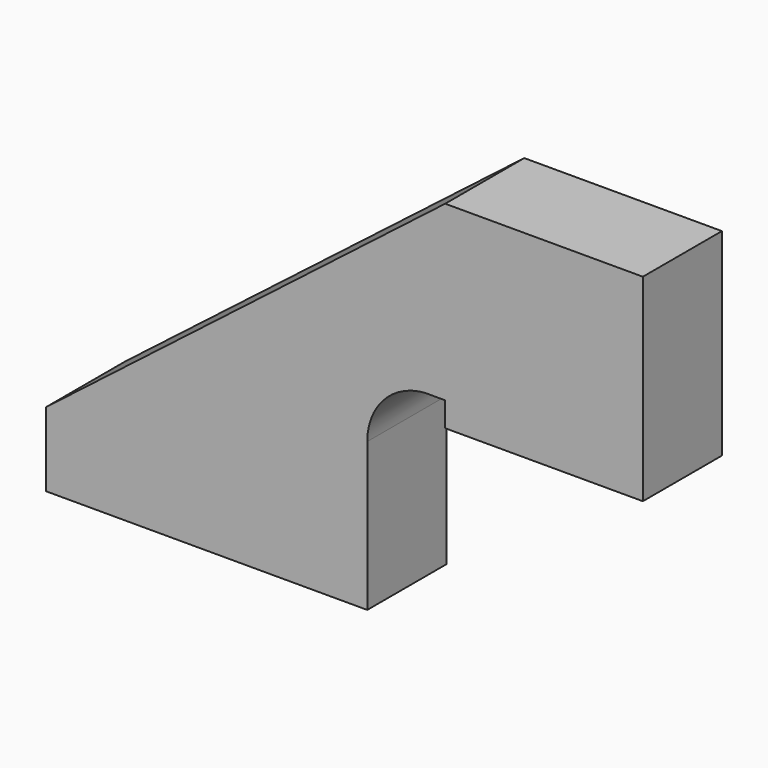
from build123d import *

# Parameters (mm, degrees)
F0_W     = 82.55
F0_H     = 19.05
F1_DEPTH = 25.4
F2_DEPTH = 25.4


with BuildPart() as f1:
    # F0 (on Front) → F1 (new body)
    with BuildSketch(Plane.XZ):
        Rectangle(F0_W, F0_H)
        Polygon((112.104006, 88.9), (61.304006, 88.9), (61.304006, 44.414274), (61.304006, 38.1), (112.104006, 38.1), align=None)
    extrude(amount=F1_DEPTH)


with BuildPart() as f2:
    # F0 (on Front) → F2 (new body)
    with BuildSketch(Plane.XZ):
        with BuildLine():
            Line((61.304006, 88.9), (-41.275, 9.525))
            Line((-41.275, 9.525), (41.275, 9.525))
            Line((41.275, 9.525), (41.275, 28.575))
            ThreePointArc((41.275, 28.575), (46.307544, 40.17055), (58.214437, 44.414274))
            Line((58.214437, 44.414274), (61.304006, 44.414274))
            Line((61.304006, 44.414274), (61.304006, 88.9))
        make_face()
        Rectangle(F0_W, F0_H)
        Polygon((112.104006, 88.9), (61.304006, 88.9), (61.304006, 44.414274), (61.304006, 38.1), (112.104006, 38.1), align=None)
    extrude(amount=F2_DEPTH)


solid = Compound([f1.part, f2.part])
